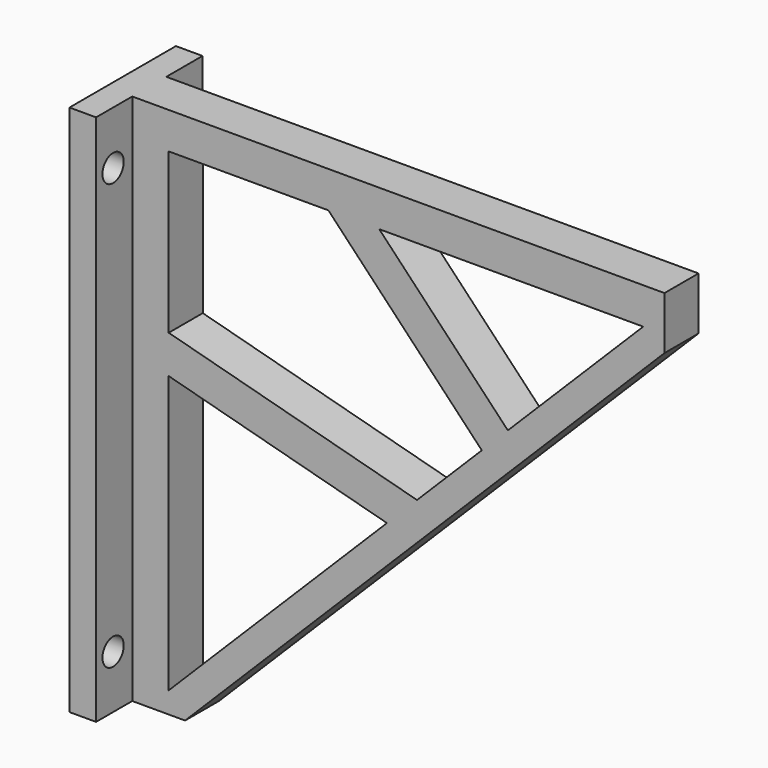
from build123d import *

# Parameters (mm, degrees)
PAD_DEPTH    = 8
SKETCH001_W  = 100
SKETCH001_H  = 25
SKETCH001_R  = 2.5
PAD001_DEPTH = 5


with BuildPart() as part:
    # Sketch → Pad (new body)
    with BuildSketch(Plane.XZ):
        Polygon((0, 0), (0, 100), (100, 100), (100, 90.074147), (9.925853, 0), align=None)
        Polygon((6.854785, 93.145215), (36.854785, 93.145215), (65.676567, 62.821781), (53.501145, 50.64636), (6.854785, 63.145215), align=None, mode=Mode.SUBTRACT)
        Polygon((47.852116, 44.997331), (6.854785, 55.982532), (6.854785, 4), align=None, mode=Mode.SUBTRACT)
        Polygon((70.570346, 67.715561), (46.399999, 93.145215), (96, 93.145215), align=None, mode=Mode.SUBTRACT)
    extrude(amount=PAD_DEPTH)

    # Sketch001 (on DatumPlane) → Pad001 (join)
    with BuildSketch(Plane(origin=(0, 0, 0), x_dir=(0, 0, -1), z_dir=(-1, 0, 0))):
        with Locations((-50, 4)):
            Rectangle(SKETCH001_W, SKETCH001_H)
        with Locations((-90, 12.5)):
            Circle(SKETCH001_R, mode=Mode.SUBTRACT)
        with Locations((-10, 12.5)):
            Circle(SKETCH001_R, mode=Mode.SUBTRACT)
        with Locations((-90, -4.5)):
            Circle(SKETCH001_R, mode=Mode.SUBTRACT)
        with Locations((-10, -4.5)):
            Circle(SKETCH001_R, mode=Mode.SUBTRACT)
    extrude(amount=PAD001_DEPTH)


solid = part.part
